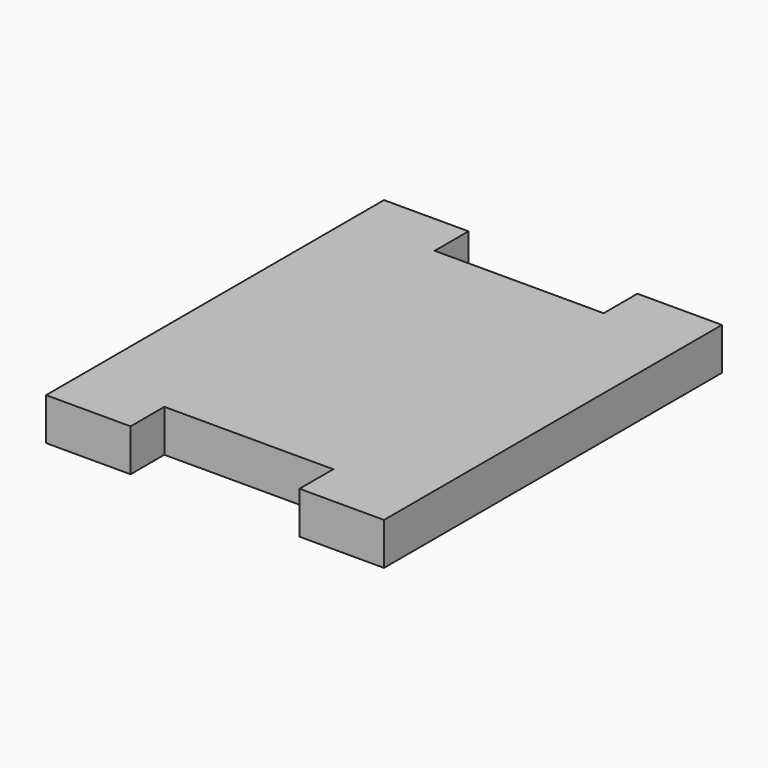
from build123d import *

# Parameters (mm, degrees)
F0_W     = 12.7
F0_H     = 6.35
F1_DEPTH = 6.35


with BuildPart() as f1:
    # F0 (on Top) → F1 (new body)
    with BuildSketch(Plane.XY):
        Polygon((12.7, 0), (0, 0), (0, -50.8), (12.7, -50.8), (38.1, -50.8), (50.8, -50.8), (50.8, 0), (38.1, 0), align=None)
        with Locations((6.35, -53.975)):
            Rectangle(F0_W, F0_H)
        with Locations((44.45, -53.975)):
            Rectangle(F0_W, F0_H)
        with Locations((6.35, 3.175)):
            Rectangle(F0_W, F0_H)
        with Locations((44.45, 3.175)):
            Rectangle(F0_W, F0_H)
    extrude(amount=F1_DEPTH)


solid = f1.part
